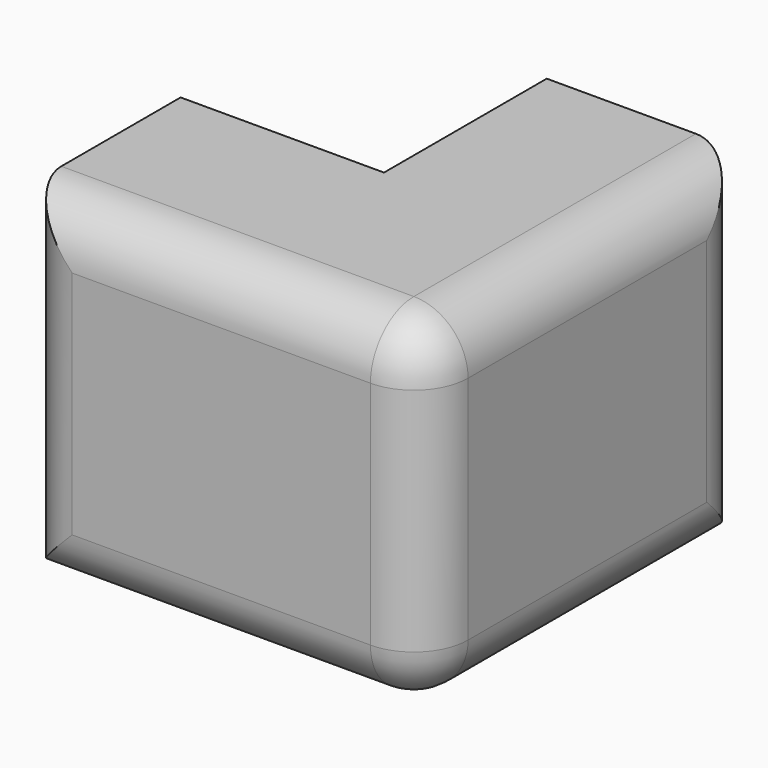
from build123d import *

# Parameters (mm, degrees)
F1_DEPTH = 12.5
F3_DEPTH = 3.15
F4_R     = 4


with BuildPart() as f1:
    # F0 (on Top) → F1 (new body, symmetric)
    with BuildSketch(Plane.XY):
        Polygon((15, 15), (0, 15), (0, 0), (-15, 0), (-15, -15), (15, -15), align=None)
    extrude(amount=F1_DEPTH, both=True)

    # F2 (on Top) → F3 (cut, symmetric)
    with BuildSketch(Plane.XY):
        Polygon((7.5, 15), (0, 15), (0, 0), (-15, 0), (-15, -7.5), (7.5, -7.5), align=None)
    extrude(amount=F3_DEPTH, both=True, mode=Mode.SUBTRACT)

    # F4
    f4_edges = [f1.edges().sort_by_distance(p)[0] for p in [
        (-15, -15, 0),
        (15, -15, 0),
        (15, 15, 0),
        (15, 0, 12.5),
        (0, -15, 12.5),
        (15, 0, -12.5),
        (0, -15, -12.5),
    ]]
    fillet(f4_edges, radius=F4_R)


solid = f1.part
